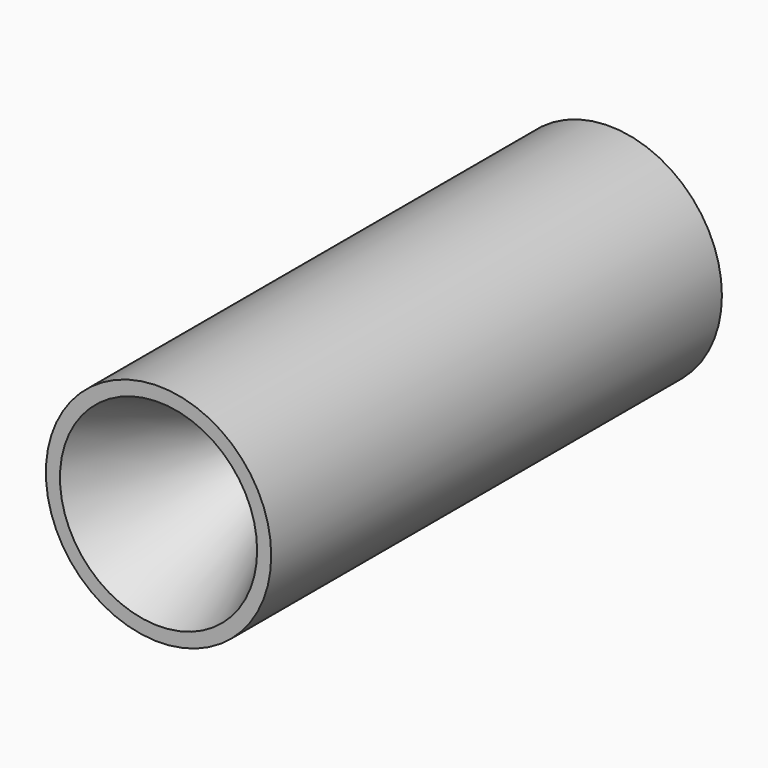
from build123d import *

# Parameters (mm, degrees)
F0_R     = 4
F0_R_2   = 3.5
F1_DEPTH = 20


with BuildPart() as f1:
    # F0 (on Front) → F1 (new body)
    with BuildSketch(Plane.XZ):
        Circle(F0_R)
        Circle(F0_R_2, mode=Mode.SUBTRACT)
        Circle(F0_R_2)
    extrude(amount=-F1_DEPTH)

    # F0 (on Front) → F3 section 0
    with BuildSketch(Plane.XZ, mode=Mode.PRIVATE) as f3_s0:
        Circle(F0_R_2)
    loft([f3_s0.sketch, Vertex(0, 7.5, 0)], mode=Mode.SUBTRACT)


solid = f1.part
